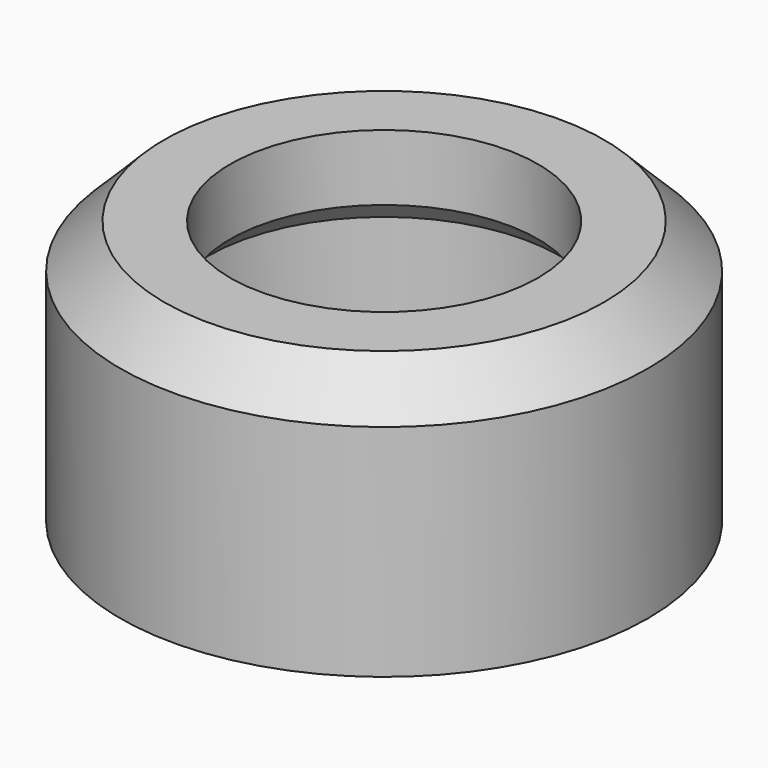
from build123d import *

# Parameters (mm, degrees)
SKETCH_R        = 6
PAD_DEPTH       = 6
SKETCH002_R     = 3.5
POCKET_DEPTH    = 6.001
SKETCH001_R     = 4.5
POCKET001_DEPTH = 4
CHAMFER_SIZE    = 0.5
CHAMFER001_SIZE = 0.5
CHAMFER002_SIZE = 1


with BuildPart() as part:
    # Sketch → Pad (new body)
    with BuildSketch(Plane.XY):
        Circle(SKETCH_R)
    extrude(amount=PAD_DEPTH)

    # Sketch002 → Pocket (cut, through all)
    with BuildSketch(Plane(origin=(0, 0, 0), x_dir=(1, 0, 0), z_dir=(0, 0, -1))):
        Circle(SKETCH002_R)
    extrude(amount=-POCKET_DEPTH, mode=Mode.SUBTRACT)

    # Sketch001 → Pocket001 (cut)
    with BuildSketch(Plane(origin=(0, 0, 0), x_dir=(1, 0, 0), z_dir=(0, 0, -1))):
        Circle(SKETCH001_R)
    extrude(amount=-POCKET001_DEPTH, mode=Mode.SUBTRACT)

    # Chamfer
    chamfer_edges = [part.edges().sort_by_distance(p)[0] for p in [
        (-4.5, 0, 0),
    ]]
    chamfer(chamfer_edges, length=CHAMFER_SIZE)

    # Chamfer001
    chamfer001_edges = [part.edges().sort_by_distance(p)[0] for p in [
        (-3.5, 0, 4),
    ]]
    chamfer(chamfer001_edges, length=CHAMFER001_SIZE)

    # Chamfer002
    chamfer002_edges = [part.edges().sort_by_distance(p)[0] for p in [
        (-6, 0, 6),
    ]]
    chamfer(chamfer002_edges, length=CHAMFER002_SIZE)


solid = part.part
